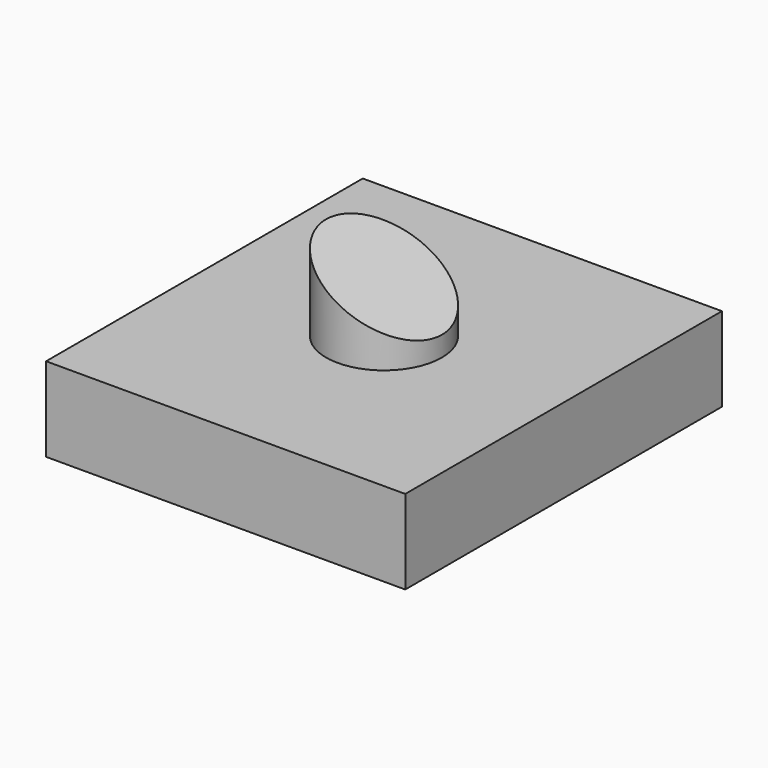
from build123d import *

# Parameters (mm, degrees)
F0_W     = 108.40325
F0_H     = 119.467252
F1_DEPTH = 25.4
F2_R     = 17.467659
F3_DEPTH = 25.4
F5_DEPTH = 119.468251


with BuildPart() as f1:
    # F0 (on Top) → F1 (new body)
    with BuildSketch(Plane.XY):
        Rectangle(F0_W, F0_H)
    extrude(amount=F1_DEPTH)

    # F2 (on face) → F3 (join)
    with BuildSketch(Plane.XY.offset(25.4)):
        Circle(F2_R)
    extrude(amount=F3_DEPTH)

    # F4 (on face) → F5 (cut, through all)
    with BuildSketch(Plane.XZ.offset(59.733626)):
        Polygon((17.467659, 50.8), (-17.467659, 50.8), (17.467659, 31.459402), align=None)
    extrude(amount=-F5_DEPTH, mode=Mode.SUBTRACT)


solid = f1.part
